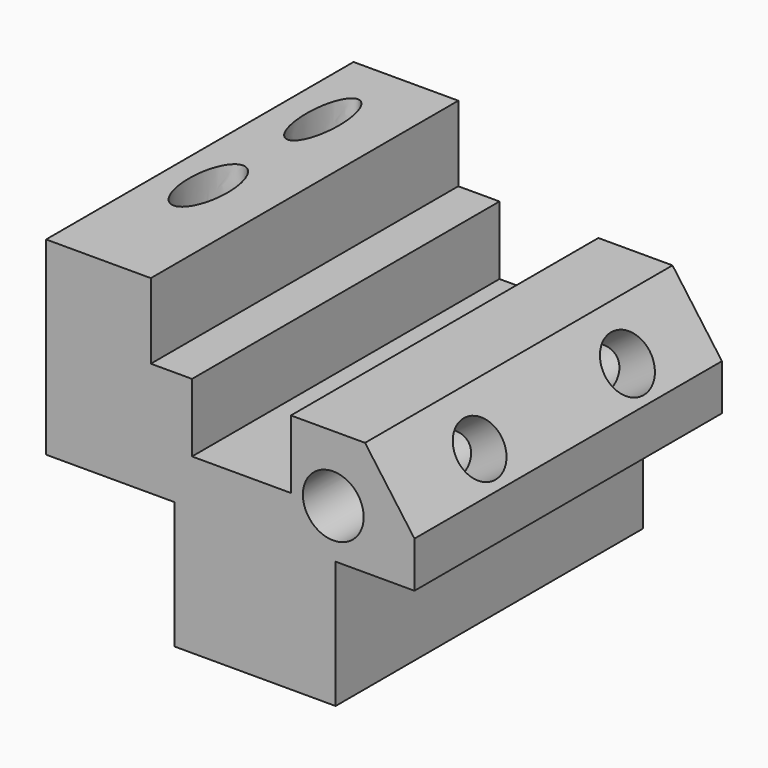
from build123d import *

# Parameters (mm, degrees)
F1_DEPTH = 93.98
F2_R     = 6.626037
F2_R_2   = 6.777955
F3_DEPTH = 25.4
F5_DEPTH = 37.846
F6_R     = 7.438968
F7_DEPTH = 128.778


with BuildPart() as f1:
    # F0 (on Front) → F1 (new body)
    with BuildSketch(Plane.XZ):
        Polygon((-34.248885, 46.336725), (-59.863597, 46.336725), (-59.863597, 0), (-28.492769, 0), (-28.492769, -31.083023), (10.93662, -31.083023), (10.93662, 0), (30.219607, 0), (30.219607, 11.224424), (18.131761, 27.917158), (0, 27.917158), (0, 11.224424), (-24.175683, 11.224424), (-24.175683, 27.917158), (-34.248885, 27.917158), align=None)
    extrude(amount=F1_DEPTH)

    # F2 (on face) → F3 (cut)
    with BuildSketch(Plane(origin=(25.156285, 0, 18.216628), x_dir=(0, 1, 0), z_dir=(0.809942, 0, 0.58651))):
        with Locations((-67.734443, 0)):
            Circle(F2_R)
        with Locations((-22.558866, 0)):
            Circle(F2_R_2)
    extrude(amount=-F3_DEPTH, mode=Mode.SUBTRACT)

    # F4 (on face) → F5 (cut)
    with BuildSketch(Plane.XY.offset(46.336725)):
        with BuildLine():
            add(Edge.make_bspline(
                [(-49.610309, -46.578269), (-57.791175, -46.578269), (-53.700742, -62.50973), (-49.610309, -78.441191), (-45.519876, -62.50973), (-41.429444, -46.578269), (-49.610309, -46.578269)],
                knots=[0, 0, 0, 2.094395, 2.094395, 4.18879, 4.18879, 6.283185, 6.283185, 6.283185], degree=2, weights=[1, 0.5, 1, 0.5, 1, 0.5, 1]))
        make_face()
        with BuildLine():
            add(Edge.make_bspline(
                [(-49.610309, -11.490341), (-56.510654, -11.490341), (-53.060482, -27.570017), (-49.610309, -43.649692), (-46.160137, -27.570017), (-42.709965, -11.490341), (-49.610309, -11.490341)],
                knots=[0, 0, 0, 2.094395, 2.094395, 4.18879, 4.18879, 6.283185, 6.283185, 6.283185], degree=2, weights=[1, 0.5, 1, 0.5, 1, 0.5, 1]))
        make_face()
    extrude(amount=-F5_DEPTH, mode=Mode.SUBTRACT)

    # F6 (on face) → F7 (cut)
    with BuildSketch(Plane.XZ.offset(93.98)):
        with Locations((10.366299, 11.81201)):
            Circle(F6_R)
    extrude(amount=-F7_DEPTH, mode=Mode.SUBTRACT)


solid = f1.part
